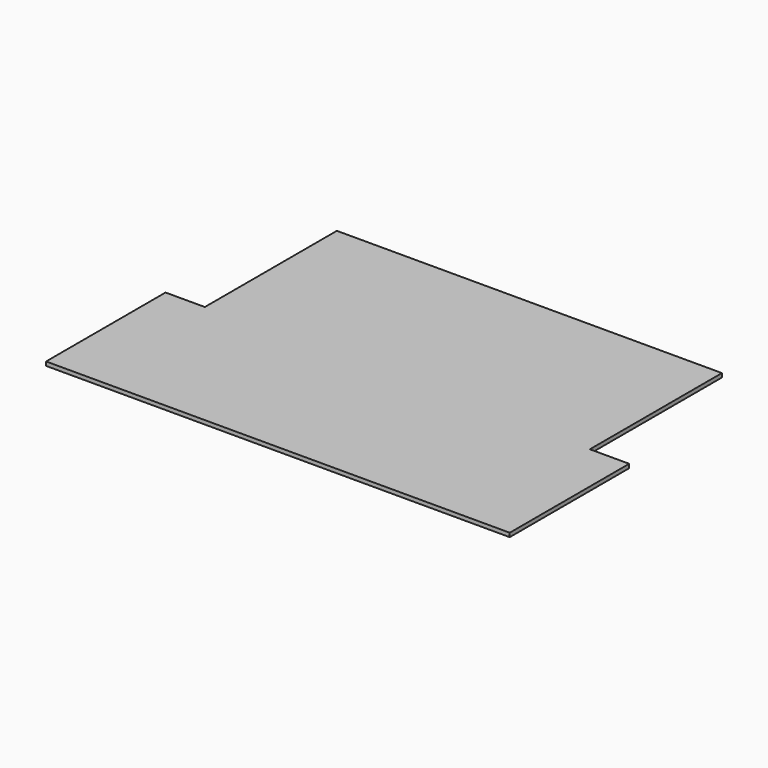
from build123d import *

# Parameters (mm, degrees)
F0_W     = 127
F0_H     = 12.7
F1_DEPTH = 1016
F2_DEPTH = 533.4


with BuildPart() as f1:
    # F0 (on Front) → F1 (new body)
    with BuildSketch(Plane.XZ):
        with Locations((-685.8, 6.35)):
            Rectangle(F0_W, F0_H)
        Polygon((-622.3, 0), (0, 0), (622.3, 0), (622.3, 12.7), (-622.3, 12.7), align=None)
        with Locations((685.8, 6.35)):
            Rectangle(F0_W, F0_H)
    extrude(amount=F1_DEPTH)

    # F0 (on Front) → F2 (cut)
    with BuildSketch(Plane.XZ):
        with Locations((-685.8, 6.35)):
            Rectangle(F0_W, F0_H)
        with Locations((685.8, 6.35)):
            Rectangle(F0_W, F0_H)
    extrude(amount=F2_DEPTH, mode=Mode.SUBTRACT)


solid = f1.part
